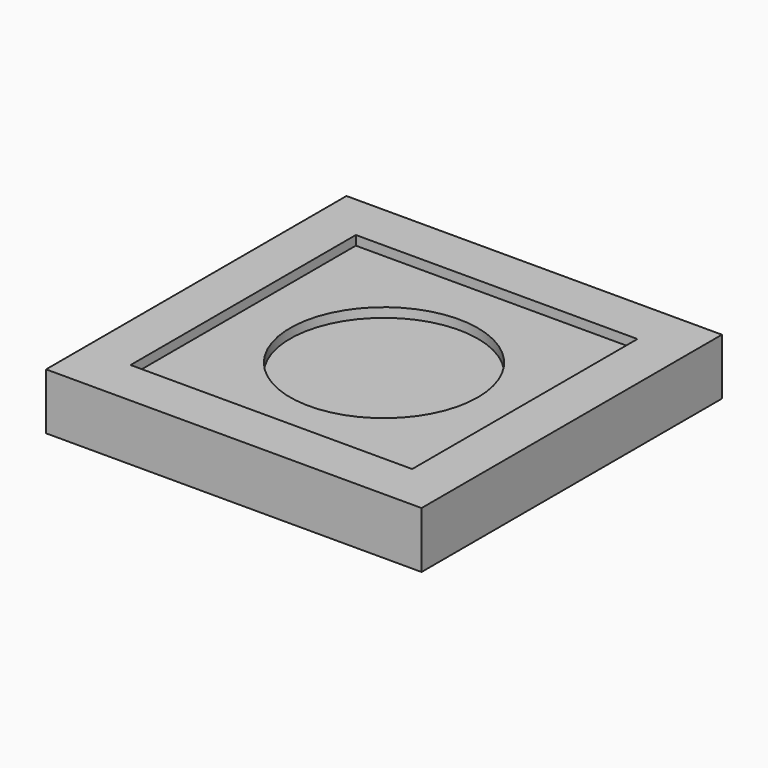
from build123d import *

# Parameters (mm, degrees)
CUBE001_W      = 30
CUBE001_H      = 30
CUBE001_DEPTH  = 1
CYLINDER_R     = 10
CYLINDER_DEPTH = 2
CUBE_W         = 40
CUBE_H         = 40
CUBE_DEPTH     = 6


with BuildPart() as cube001:
    # cube001 → cube001 (new body)
    with BuildSketch(Plane(origin=(-15, -15, 2), x_dir=(1, 0, 0), z_dir=(0, 0, 1))):
        with Locations((15, 15)):
            Rectangle(CUBE001_W, CUBE001_H)
    extrude(amount=CUBE001_DEPTH)


with BuildPart() as union:
    # cylinder → cylinder (new body)
    with BuildSketch(Plane.XY.offset(1)):
        Circle(CYLINDER_R)
    extrude(amount=CYLINDER_DEPTH)

    # union: union cube001
    add(cube001.part)


with BuildPart() as difference:
    # cube → cube (new body)
    with BuildSketch(Plane(origin=(-20, -20, -3), x_dir=(1, 0, 0), z_dir=(0, 0, 1))):
        with Locations((20, 20)):
            Rectangle(CUBE_W, CUBE_H)
    extrude(amount=CUBE_DEPTH)

    # difference: cut union
    add(union.part, mode=Mode.SUBTRACT)


solid = difference.part
